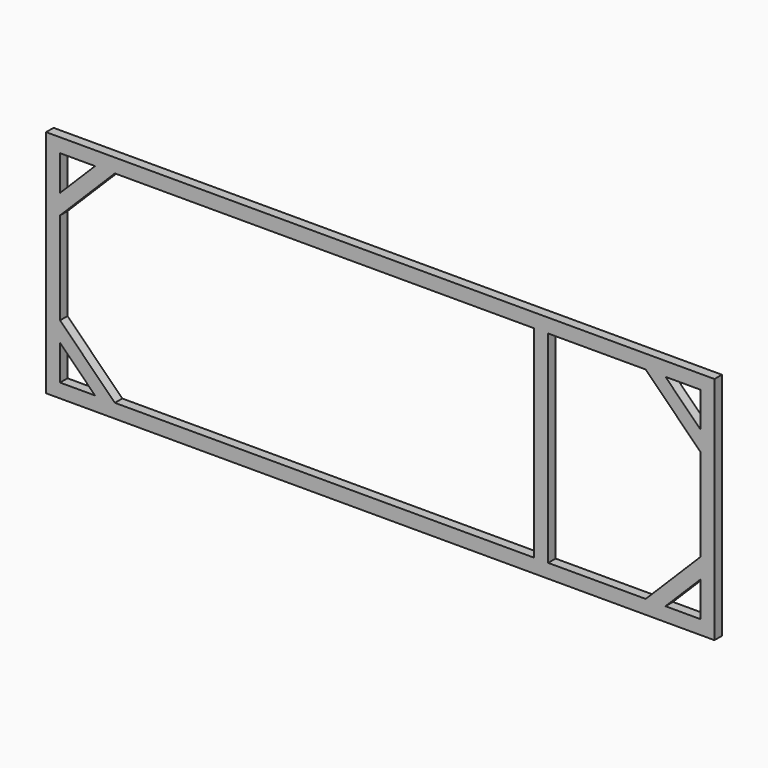
from build123d import *

# Parameters (mm, degrees)
F0_W     = 1433
F0_H     = 493
F1_DEPTH = 20


with BuildPart() as f1:
    # F0 (on Front) → F1 (new body)
    with BuildSketch(Plane.XZ):
        Rectangle(F0_W, F0_H)
        Polygon((-611.5, -216.5), (-686.5, -216.5), (-686.5, -141.5), align=None, mode=Mode.SUBTRACT)
        Polygon((686.5, -141.5), (686.5, -216.5), (611.5, -216.5), align=None, mode=Mode.SUBTRACT)
        Polygon((-569.073593, 216.5), (330, 216.5), (330, -216.5), (-569.073593, -216.5), (-686.5, -99.073593), (-686.5, 99.073593), align=None, mode=Mode.SUBTRACT)
        Polygon((-611.5, 216.5), (-686.5, 141.5), (-686.5, 216.5), align=None, mode=Mode.SUBTRACT)
        Polygon((569.073593, -216.5), (360, -216.5), (360, 216.5), (569.073593, 216.5), (686.5, 99.073593), (686.5, -99.073593), align=None, mode=Mode.SUBTRACT)
        Polygon((611.5, 216.5), (686.5, 216.5), (686.5, 141.5), align=None, mode=Mode.SUBTRACT)
    extrude(amount=F1_DEPTH)


solid = f1.part
